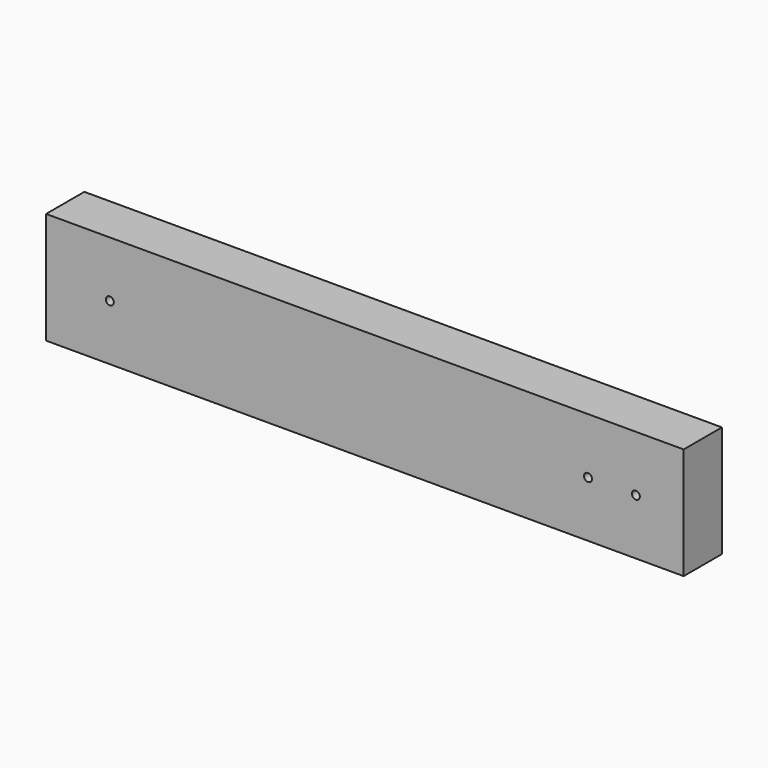
from build123d import *

# Parameters (mm, degrees)
F0_W     = 38.1
F0_H     = 88.9
F1_DEPTH = 254
F3_D     = 6.35


with BuildPart() as f1:
    # F0 (on Right) → F1 (new body, symmetric)
    with BuildSketch(Plane.YZ):
        with Locations((-19.05, 44.45)):
            Rectangle(F0_W, F0_H)
    extrude(amount=F1_DEPTH, both=True)

    # F3 (through all)
    with Locations(Plane.XZ.offset(38.1)):
        with Locations((215.9, 44.45), (177.8, 44.45), (-203.2, 44.45)):
            Hole(F3_D / 2)


solid = f1.part
